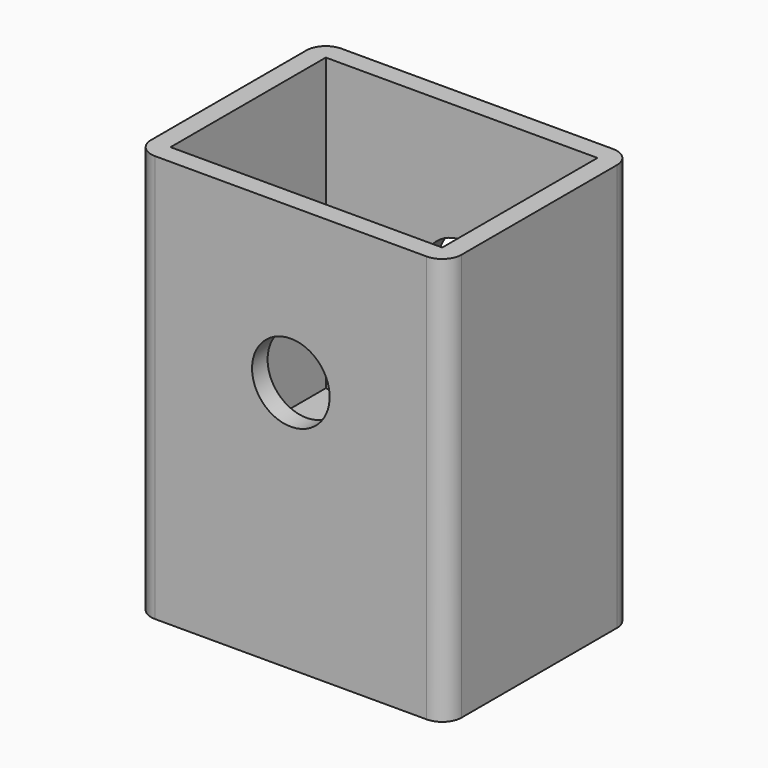
from build123d import *

# Parameters (mm, degrees)
F0_W     = 16
F0_H     = 12
F1_DEPTH = 16
F2_T     = -1
F4_D     = 4
F5_DEPTH = 5
F6_R     = 1


with BuildPart() as f1:
    # F0 (on Top) → F1 (new body)
    with BuildSketch(Plane.XY):
        Rectangle(F0_W, F0_H)
    extrude(amount=F1_DEPTH)

    # F2
    f2_openings = [f1.faces().sort_by_distance(p)[0] for p in [
        (0, 0, 16),
    ]]
    offset(amount=F2_T, openings=f2_openings)

    # F4 (through all)
    with Locations(Plane.XZ.offset(6)):
        with Locations((0, 8)):
            Hole(F4_D / 2)

    # F5 (add): a face of the model
    f5_faces = [f1.faces().sort_by_distance(p)[0] for p in [
        (0, 0, 0),
    ]]
    extrude(f5_faces, amount=F5_DEPTH)

    # F6
    f6_edges = [f1.edges().sort_by_distance(p)[0] for p in [
        (8, -6, 5.5),
        (-8, -6, 5.5),
        (8, 6, 5.5),
        (-8, 6, 5.5),
    ]]
    fillet(f6_edges, radius=F6_R)


solid = f1.part
